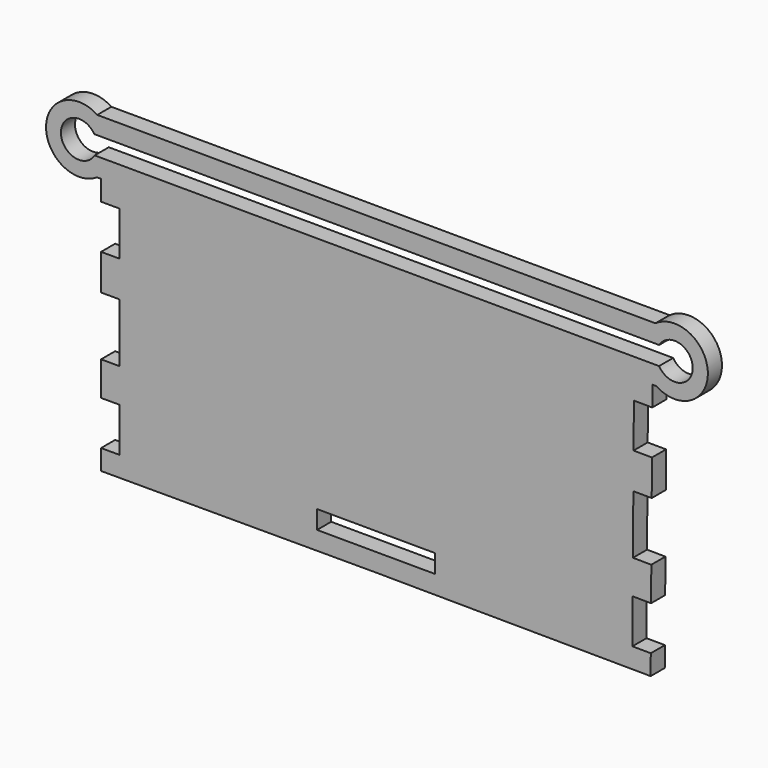
from build123d import *

# Parameters (mm, degrees)
F1_DEPTH = 6.096


with BuildPart() as f1:
    # F0 (on Front) → F1 (new body)
    with BuildSketch(Plane.XZ):
        with BuildLine():
            Line((0, 6.985), (0, 0))
            Line((0, 0), (94.9673, 0))
            Line((94.9673, 0), (189.932378, -0.649602))
            Line((189.932378, -0.649602), (189.980157, 6.335235))
            Line((189.980157, 6.335235), (183.630306, 6.378671))
            Line((183.630306, 6.378671), (183.734552, 21.618314))
            Line((183.734552, 21.618314), (190.084403, 21.574878))
            Line((190.084403, 21.574878), (190.164782, 33.325415))
            Line((190.164782, 33.325415), (183.81493, 33.368851))
            Line((183.81493, 33.368851), (183.953925, 53.688376))
            Line((183.953925, 53.688376), (190.303776, 53.64494))
            Line((190.303776, 53.64494), (190.388453, 66.023839))
            Line((190.388453, 66.023839), (184.038601, 66.067274))
            Line((184.038601, 66.067274), (184.142847, 81.306918))
            Line((184.142847, 81.306918), (190.492699, 81.263482))
            Line((190.492699, 81.263482), (190.540478, 88.248319))
            Line((190.540478, 88.248319), (191.868091, 88.239237))
            ThreePointArc((191.868091, 88.239237), (209.702261, 97.998763), (191.597812, 107.24727))
            Line((191.597812, 107.24727), (-1.306593, 107.907036))
            ThreePointArc((-1.306593, 107.907036), (-19.011515, 98.463961), (-1.3716, 88.9))
            Line((-1.3716, 88.9), (0, 88.9))
            Line((0, 88.9), (0, 81.915))
            Line((0, 81.915), (6.35, 81.915))
            Line((6.35, 81.915), (6.35, 66.675))
            Line((6.35, 66.675), (0, 66.675))
            Line((0, 66.675), (0, 54.295812))
            Line((0, 54.295812), (6.35, 54.295812))
            Line((6.35, 54.295812), (6.35, 33.975812))
            Line((6.35, 33.975812), (0, 33.975812))
            Line((0, 33.975812), (0, 22.225))
            Line((0, 22.225), (6.35, 22.225))
            Line((6.35, 22.225), (6.35, 6.985))
            Line((6.35, 6.985), (0, 6.985))
        make_face()
        Polygon((115.33026, 6.210857), (74.6473, 6.35), (74.6473, 12.7), (115.373696, 12.560709), align=None, mode=Mode.SUBTRACT)
        with BuildLine():
            ThreePointArc((-2.204761, 95.307679), (-13.867398, 98.313086), (-2.319885, 101.734273))
            Line((-2.319885, 101.734273), (192.878281, 101.066661))
            ThreePointArc((192.878281, 101.066661), (204.474598, 97.8139), (192.856302, 94.640536))
            Line((192.856302, 94.640536), (-2.204761, 95.307679))
        make_face(mode=Mode.SUBTRACT)
    extrude(amount=F1_DEPTH)


solid = f1.part
